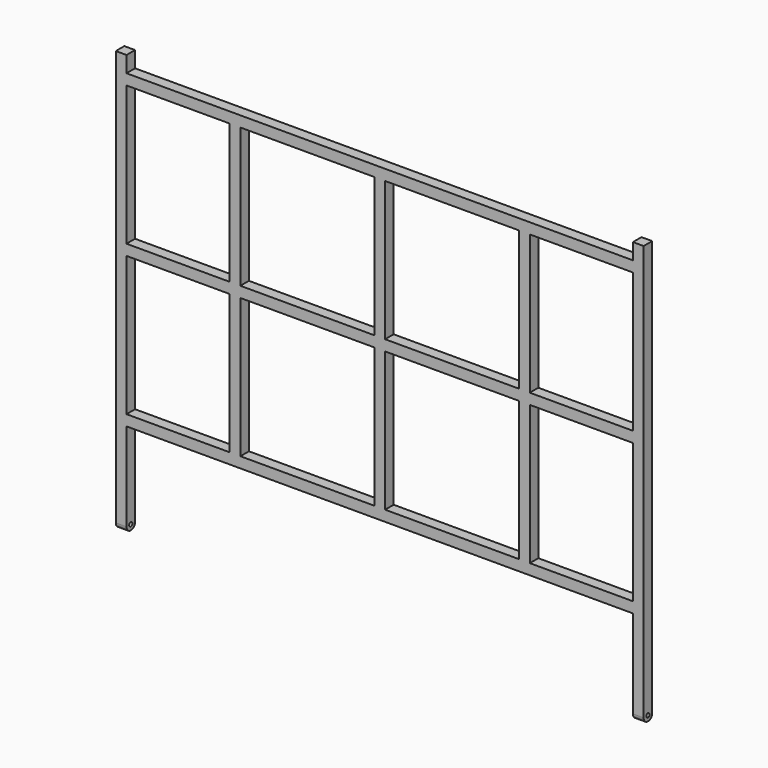
from build123d import *

# Parameters (mm, degrees)
F0_W     = 385
F0_H     = 40
F0_W_2   = 40
F0_W_3   = 500
F0_H_2   = 520
F1_DEPTH = 40
F2_R     = 7.5
F3_DEPTH = 1970


with BuildPart() as f1:
    # F0 (on Front) → F1 (new body)
    with BuildSketch(Plane.XZ):
        Polygon((-466.0141045587, 897.1081616529), (-506.0141045587, 897.1081616529), (-506.0141045587, -672.8918383471), (-466.0141045587, -672.8918383471), (-466.0141045587, -322.8918383471), (-466.0141045587, -282.8918383471), (-466.0141045587, 237.1081616529), (-466.0141045587, 277.1081616529), (-466.0141045587, 797.1081616529), (-466.0141045587, 837.1081616529), align=None)
        with Locations((-273.5141045587, 817.1081616529)):
            Rectangle(F0_W, F0_H)
        with Locations((-273.5141045587, -302.8918383471)):
            Rectangle(F0_W, F0_H)
        with Locations((-61.0141045587, 817.1081616529)):
            Rectangle(F0_W_2, F0_H)
        with Locations((-61.0141045587, -302.8918383471)):
            Rectangle(F0_W_2, F0_H)
        with Locations((208.9858954413, 817.1081616529)):
            Rectangle(F0_W_3, F0_H)
        with Locations((208.9858954413, -302.8918383471)):
            Rectangle(F0_W_3, F0_H)
        with Locations((478.9858954413, 817.1081616529)):
            Rectangle(F0_W_2, F0_H)
        with Locations((478.9858954413, -302.8918383471)):
            Rectangle(F0_W_2, F0_H)
        with Locations((748.9858954413, 817.1081616529)):
            Rectangle(F0_W_3, F0_H)
        with Locations((748.9858954413, -302.8918383471)):
            Rectangle(F0_W_3, F0_H)
        with Locations((1018.9858954413, 817.1081616529)):
            Rectangle(F0_W_2, F0_H)
        with Locations((1018.9858954413, -302.8918383471)):
            Rectangle(F0_W_2, F0_H)
        with Locations((1231.4858954413, 817.1081616529)):
            Rectangle(F0_W, F0_H)
        with Locations((1231.4858954413, -302.8918383471)):
            Rectangle(F0_W, F0_H)
        Polygon((1423.9858954413, 897.1081616529), (1423.9858954413, 837.1081616529), (1423.9858954413, 797.1081616529), (1423.9858954413, 277.1081616529), (1423.9858954413, 237.1081616529), (1423.9858954413, -282.8918383471), (1423.9858954413, -322.8918383471), (1423.9858954413, -672.8918383471), (1463.9858954413, -672.8918383471), (1463.9858954413, 897.1081616529), align=None)
        with Locations((-61.0141045587, 537.1081616529)):
            Rectangle(F0_W_2, F0_H_2)
        with Locations((-273.5141045587, 257.1081616529)):
            Rectangle(F0_W, F0_H)
        with Locations((-61.0141045587, 257.1081616529)):
            Rectangle(F0_W_2, F0_H)
        with Locations((-61.0141045587, -22.8918383471)):
            Rectangle(F0_W_2, F0_H_2)
        with Locations((208.9858954413, 257.1081616529)):
            Rectangle(F0_W_3, F0_H)
        with Locations((1231.4858954413, 257.1081616529)):
            Rectangle(F0_W, F0_H)
        with Locations((208.9858954413, 257.1081616529)):
            Rectangle(F0_W_3, F0_H)
        with Locations((478.9858954413, 257.1081616529)):
            Rectangle(F0_W_2, F0_H)
        with Locations((478.9858954413, -22.8918383471)):
            Rectangle(F0_W_2, F0_H_2)
        with Locations((1231.4858954413, 257.1081616529)):
            Rectangle(F0_W, F0_H)
        with Locations((478.9858954413, 537.1081616529)):
            Rectangle(F0_W_2, F0_H_2)
        with Locations((748.9858954413, 257.1081616529)):
            Rectangle(F0_W_3, F0_H)
        with Locations((1018.9858954413, 257.1081616529)):
            Rectangle(F0_W_2, F0_H)
        with Locations((1018.9858954413, 537.1081616529)):
            Rectangle(F0_W_2, F0_H_2)
        with Locations((1018.9858954413, -22.8918383471)):
            Rectangle(F0_W_2, F0_H_2)
    extrude(amount=F1_DEPTH)

    # F2 (on face) → F3 (cut, through all)
    with BuildSketch(Plane.YZ.offset(1463.9858954413)):
        with Locations((-20, -652.8918383471)):
            Circle(F2_R)
        with BuildLine():
            ThreePointArc((-20, -672.8918383471), (-34.1421356237, -667.0339739708), (-40, -652.8918383471))
            Line((-40, -652.8918383471), (-40, -672.8918383471))
            Line((-40, -672.8918383471), (-20, -672.8918383471))
        make_face()
        with BuildLine():
            ThreePointArc((0, -652.8918383471), (-5.8578643763, -667.0339739708), (-20, -672.8918383471))
            Line((-20, -672.8918383471), (0, -672.8918383471))
            Line((0, -672.8918383471), (0, -652.8918383471))
        make_face()
    extrude(amount=-F3_DEPTH, mode=Mode.SUBTRACT)


solid = f1.part
